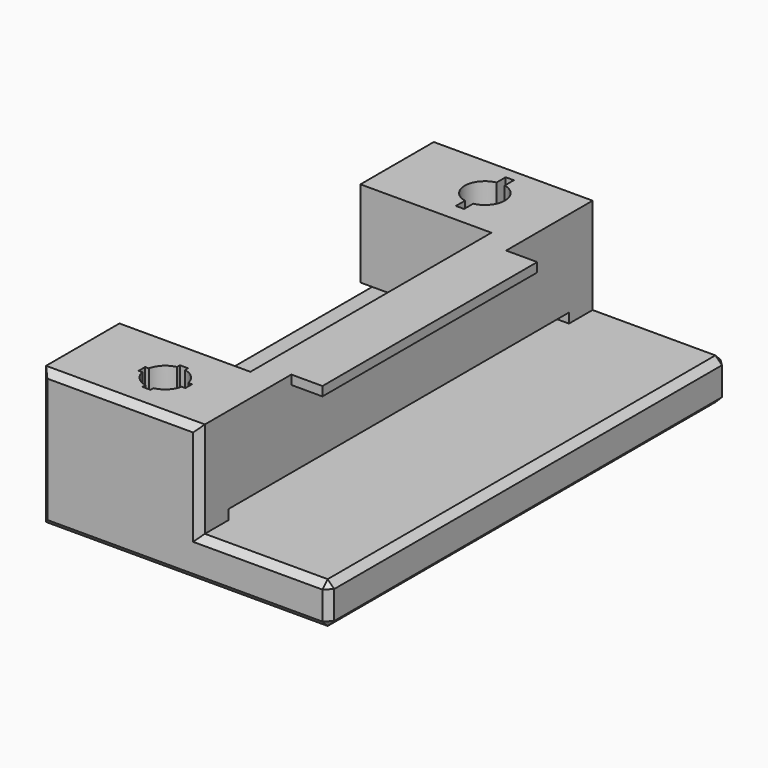
from build123d import *

# Parameters (mm, degrees)
F0_W      = 58
F0_H      = 152
F1_DEPTH  = 42
F3_DEPTH  = 25
F4_DEPTH  = 25
F5_W      = 130
F5_H      = 3
F6_DEPTH  = 58
F7_DEPTH  = 30
F8_W      = 9.5
F8_H      = 35
F9_DEPTH  = 29.4
F10_W     = 9.5
F10_H     = 23.6
F11_DEPTH = 82
F12_SIZE  = 2
F13_W     = 40
F13_H     = 92
F14_DEPTH = 26.4


with BuildPart() as f1:
    # F0 (on Top) → F1 (new body)
    with BuildSketch(Plane.XY):
        with Locations((-19.09, 37.088177)):
            Rectangle(F0_W, F0_H)
    extrude(amount=F1_DEPTH)

    # F2 (on face) → F3 (cut)
    with BuildSketch(Plane.XY.offset(42)):
        with BuildLine():
            Line((-20.84, 88.588177), (-20.84, 92.066549))
            ThreePointArc((-20.84, 92.066549), (-15.94, 98.088177), (-20.84, 104.109805))
            Line((-20.84, 104.109805), (-20.84, 107.588177))
            Line((-20.84, 107.588177), (-23.34, 107.588177))
            Line((-23.34, 107.588177), (-23.34, 104.109805))
            ThreePointArc((-23.34, 104.109805), (-28.24, 98.088177), (-23.34, 92.066549))
            Line((-23.34, 92.066549), (-23.34, 88.588177))
            Line((-23.34, 88.588177), (-20.84, 88.588177))
        make_face()
    extrude(amount=-F3_DEPTH, mode=Mode.SUBTRACT)

    # F2 (on face) → F4 (cut)
    with BuildSketch(Plane.XY.offset(42)):
        with BuildLine():
            Line((-20.84, -31.061823), (-20.84, -29.933451))
            ThreePointArc((-20.84, -29.933451), (-17.741293, -28.26053), (-16.068372, -25.161823))
            Line((-16.068372, -25.161823), (-14.94, -25.161823))
            Line((-14.94, -25.161823), (-14.94, -22.661823))
            Line((-14.94, -22.661823), (-16.068372, -22.661823))
            ThreePointArc((-16.068372, -22.661823), (-17.741293, -19.563116), (-20.84, -17.890195))
            Line((-20.84, -17.890195), (-20.84, -16.761823))
            Line((-20.84, -16.761823), (-23.34, -16.761823))
            Line((-23.34, -16.761823), (-23.34, -17.890195))
            ThreePointArc((-23.34, -17.890195), (-26.438706, -19.563116), (-28.111627, -22.661823))
            Line((-28.111627, -22.661823), (-29.24, -22.661823))
            Line((-29.24, -22.661823), (-29.24, -25.161823))
            Line((-29.24, -25.161823), (-28.111627, -25.161823))
            ThreePointArc((-28.111627, -25.161823), (-26.438706, -28.26053), (-23.34, -29.933451))
            Line((-23.34, -29.933451), (-23.34, -31.061823))
            Line((-23.34, -31.061823), (-20.84, -31.061823))
        make_face()
    extrude(amount=-F4_DEPTH, mode=Mode.SUBTRACT)

    # F5 (on face) → F6 (cut, through all)
    with BuildSketch(Plane.YZ.offset(9.91)):
        with Locations((37.088177, 14.1)):
            Rectangle(F5_W, F5_H)
    extrude(amount=-F6_DEPTH, mode=Mode.SUBTRACT)

    # F5 (on face) → F7 (join)
    with BuildSketch(Plane.YZ.offset(9.91)):
        Polygon((102.088177, 12.6), (-27.911823, 12.6), (-38.911823, 12.6), (-38.911823, 0), (113.088177, 0), (113.088177, 12.6), align=None)
    extrude(amount=F7_DEPTH)

    # F8 (on face) → F9 (cut, through all)
    with BuildSketch(Plane.XY.offset(42)):
        with Locations((5.16, -21.411823)):
            Rectangle(F8_W, F8_H)
        with Locations((5.16, 95.588177)):
            Rectangle(F8_W, F8_H)
    extrude(amount=-F9_DEPTH, mode=Mode.SUBTRACT)

    # F10 (on face) → F11 (cut, through all)
    with BuildSketch(Plane.XZ.offset(3.911823)):
        with Locations((5.16, 27.4)):
            Rectangle(F10_W, F10_H)
    extrude(amount=-F11_DEPTH, mode=Mode.SUBTRACT)

    # F12
    f12_edges = [f1.edges().sort_by_distance(p)[0] for p in [
        (-4.09, -38.911823, 0),
        (-48.09, -38.911823, 21),
        (-23.84, -38.911823, 42),
        (0.41, -38.911823, 27.3),
        (20.16, -38.911823, 12.6),
        (39.91, -38.911823, 6.3),
        (39.91, 113.088177, 6.3),
        (20.16, 113.088177, 12.6),
        (0.41, 113.088177, 27.3),
        (-23.84, 113.088177, 42),
        (-48.09, 113.088177, 21),
        (-4.09, 113.088177, 0),
        (39.91, 37.088177, 12.6),
        (39.91, 37.088177, 0),
    ]]
    chamfer(f12_edges, length=F12_SIZE)

    # F13 (on face) → F14 (cut, through all)
    with BuildSketch(Plane.XY.offset(42)):
        with Locations((-28.09, 37.088177)):
            Rectangle(F13_W, F13_H)
    extrude(amount=-F14_DEPTH, mode=Mode.SUBTRACT)


solid = f1.part
